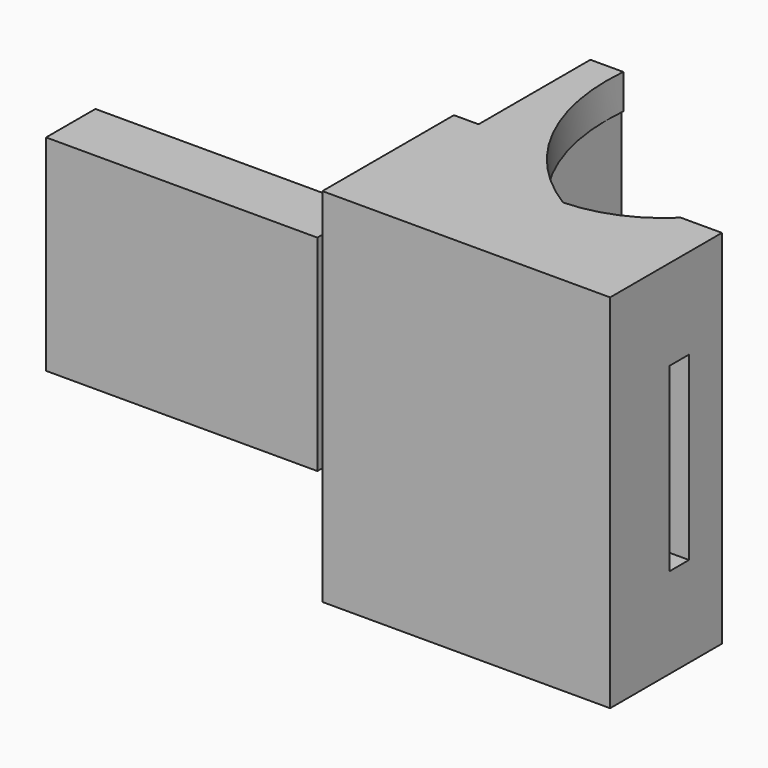
from build123d import *

# Parameters (mm, degrees)
PAD_DEPTH       = 44
SKETCH002_W     = 8.2
SKETCH002_H     = 26
POCKET_DEPTH    = 30
SKETCH003_W     = 3
SKETCH003_H     = 22
POCKET001_DEPTH = 15
COPYSKETCH004_W = 22.072513
COPYSKETCH004_H = 36.008461
POCKET002_DEPTH = 28.201
SKETCH004_R     = 1.5
HOLE_DEPTH      = 32.001
BOX001_W        = 33
BOX001_H        = 7.5
BOX001_DEPTH    = 25


with BuildPart() as body:
    # Sketch → Pad (new body)
    with BuildSketch(Plane.XY):
        with BuildLine():
            Line((0, 20), (0, 0))
            Line((0, 0), (35, 0))
            Line((35, 0), (35, 17))
            Line((35, 17), (30, 17))
            ThreePointArc((19.317482, 12.448431), (25.087642, 13.717586), (30, 17))
            ThreePointArc((7, 37), (9.65656, 22.967177), (19.317482, 12.448431))
            Line((7, 37), (3, 37))
            Line((3, 20), (3, 37))
            Line((0, 20), (3, 20))
        make_face()
    extrude(amount=PAD_DEPTH)

    # Sketch002 (on Face1 of CopyCut) → Pocket (cut)
    with BuildSketch(Plane(origin=(0, 0, 0), x_dir=(0, -1, 0), z_dir=(-1, 0, 0))):
        with Locations((-11.1, 22)):
            Rectangle(SKETCH002_W, SKETCH002_H)
    extrude(amount=-POCKET_DEPTH, mode=Mode.SUBTRACT)

    # Sketch003 (on Face11 of Pocket) → Pocket001 (cut)
    with BuildSketch(Plane.YZ.offset(35)):
        with Locations((10.5, 22)):
            Rectangle(SKETCH003_W, SKETCH003_H)
    extrude(amount=-POCKET001_DEPTH, mode=Mode.SUBTRACT)

    # CopySketch004 → Pocket002 (cut, through all)
    with BuildSketch(Plane(origin=(6.8, 0, -3), x_dir=(0, -1, 0), z_dir=(-1, 0, 0))):
        with Locations((-29.609327, 24.76855)):
            Rectangle(COPYSKETCH004_W, COPYSKETCH004_H)
    extrude(amount=-POCKET002_DEPTH, mode=Mode.SUBTRACT)

    # Sketch004 (on Face10 of Pocket002) → Hole (cut, through all)
    with BuildSketch(Plane(origin=(3, 0, 0), x_dir=(0, -1, 0), z_dir=(-1, 0, 0))):
        with Locations((-31, 9)):
            Circle(SKETCH004_R)
        with Locations((-31, 29)):
            Circle(SKETCH004_R)
    extrude(amount=-HOLE_DEPTH, mode=Mode.SUBTRACT)


with BuildPart() as cube001:
    # Box001 → Box001 (new body)
    with BuildSketch(Plane(origin=(-39.210418, 7, 9.151581), x_dir=(1, 0, 0), z_dir=(0, 0, 1))):
        with Locations((16.5, 3.75)):
            Rectangle(BOX001_W, BOX001_H)
    extrude(amount=BOX001_DEPTH)


solid = Compound([body.part, cube001.part])
